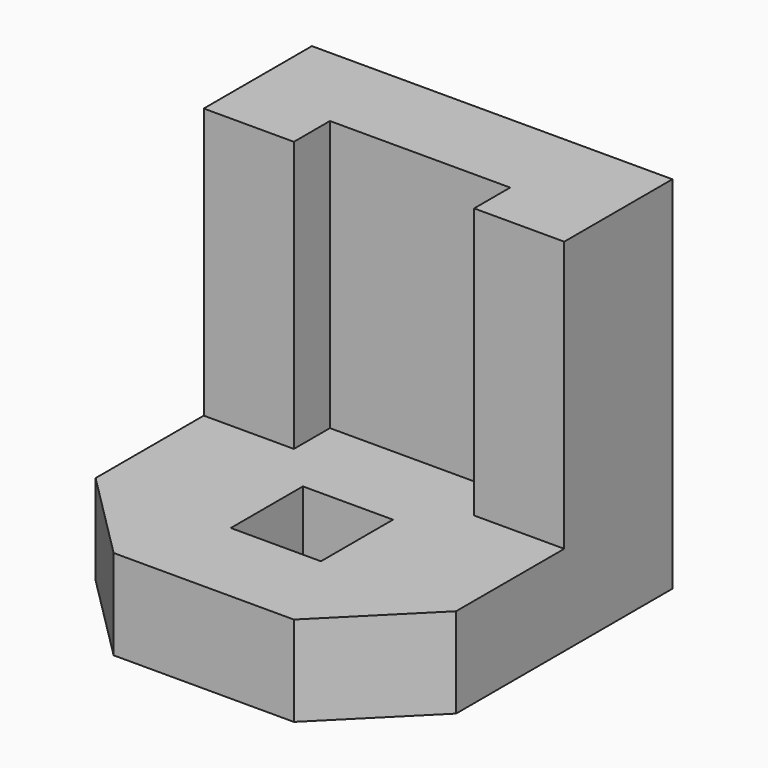
from build123d import *

# Parameters (mm, degrees)
F0_W      = 101.6
F0_H      = 101.6
F1_DEPTH  = 101.6
F2_W      = 63.5
F2_H      = 76.2
F3_DEPTH  = 127
F5_DEPTH  = 25.4
F7_DEPTH  = 25.4
F8_W      = 50.8
F8_H      = 12.7
F9_DEPTH  = 76.2
F10_W     = 25.4
F10_H     = 25.4
F11_DEPTH = 127


with BuildPart() as f1:
    # F0 (on Front) → F1 (new body)
    with BuildSketch(Plane.XZ):
        with Locations((-50.8, 50.8)):
            Rectangle(F0_W, F0_H)
    extrude(amount=F1_DEPTH)

    # F2 (on face) → F3 (cut)
    with BuildSketch(Plane.YZ):
        with Locations((-69.85, 63.5)):
            Rectangle(F2_W, F2_H)
    extrude(amount=-F3_DEPTH, mode=Mode.SUBTRACT)

    # F4 (on face) → F5 (cut)
    with BuildSketch(Plane.XY.offset(25.4)):
        Polygon((-25.4, -101.6), (0, -101.6), (0, -76.2), align=None)
    extrude(amount=-F5_DEPTH, mode=Mode.SUBTRACT)

    # F6 (on face) → F7 (cut)
    with BuildSketch(Plane.XY.offset(25.4)):
        Polygon((-101.6, -76.2), (-101.6, -101.6), (-76.2, -101.6), align=None)
    extrude(amount=-F7_DEPTH, mode=Mode.SUBTRACT)

    # F8 (on face) → F9 (cut)
    with BuildSketch(Plane.XY.offset(101.6)):
        with Locations((-50.8, -31.75)):
            Rectangle(F8_W, F8_H)
    extrude(amount=-F9_DEPTH, mode=Mode.SUBTRACT)

    # F10 (on face) → F11 (cut)
    with BuildSketch(Plane.XY.offset(25.4)):
        with Locations((-50.8, -63.5)):
            Rectangle(F10_W, F10_H)
    extrude(amount=-F11_DEPTH, mode=Mode.SUBTRACT)


solid = f1.part
